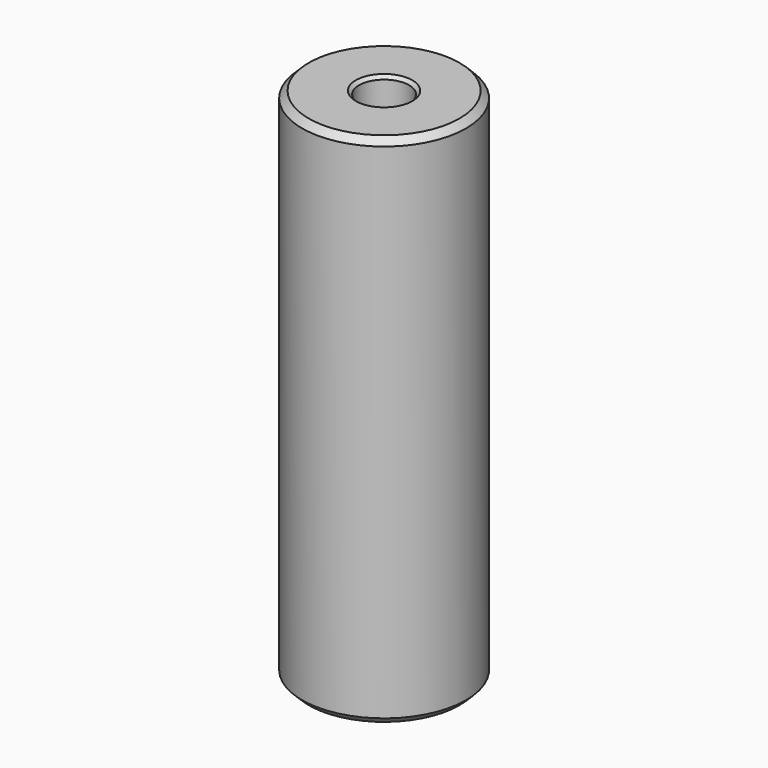
from build123d import *

# Parameters (mm, degrees)
F0_R     = 10
F0_R_2   = 6.15
F1_DEPTH = 25
F2_R     = 10
F3_DEPTH = 38
F5_DEPTH = 5
F6_R     = 3.05
F7_DEPTH = 50
F8_SIZE  = 0.8
F9_SIZE  = 0.4
F10_SIZE = 0.4


with BuildPart() as f1:
    # F0 (on Top) → F1 (new body)
    with BuildSketch(Plane.XY):
        Circle(F0_R)
        Circle(F0_R_2, mode=Mode.SUBTRACT)
    extrude(amount=F1_DEPTH)

    # F2 (on face) → F3 (join)
    with BuildSketch(Plane.XY.offset(25)):
        Circle(F2_R)
    extrude(amount=F3_DEPTH)

    # F4 (on face) → F5 (cut)
    with BuildSketch(Plane(origin=(0, 0, 25), x_dir=(1, 0, 0), z_dir=(0, 0, -1))):
        Polygon((-2.915619, -5.05), (2.915619, -5.05), (5.831238, 0), (2.915619, 5.05), (-2.915619, 5.05), (-5.831238, 0), align=None)
    extrude(amount=-F5_DEPTH, mode=Mode.SUBTRACT)

    # F6 (on face) → F7 (cut)
    with BuildSketch(Plane(origin=(0, 0, 30), x_dir=(1, 0, 0), z_dir=(0, 0, -1))):
        Circle(F6_R)
    extrude(amount=-F7_DEPTH, mode=Mode.SUBTRACT)

    # F8
    f8_edges = [f1.edges().sort_by_distance(p)[0] for p in [
        (-10, 0, 0),
        (-10, 0, 63),
    ]]
    chamfer(f8_edges, length=F8_SIZE)

    # F9
    f9_edges = [f1.edges().sort_by_distance(p)[0] for p in [
        (-3.05, 0, 63),
    ]]
    chamfer(f9_edges, length=F9_SIZE)

    # F10
    f10_edges = [f1.edges().sort_by_distance(p)[0] for p in [
        (-6.15, 0, 0),
    ]]
    chamfer(f10_edges, length=F10_SIZE)


solid = f1.part
